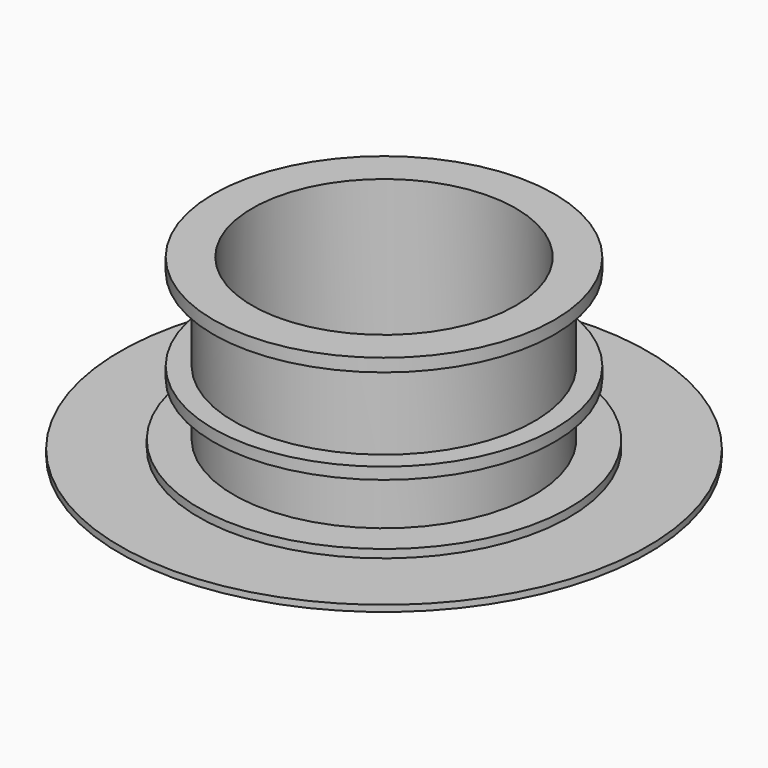
from build123d import *

# Parameters (mm, degrees)
F2_R     = 14.405
F3_DEPTH = 19.151


with BuildPart() as f1:
    # F0 (on Right) → F1 (revolve)
    with BuildSketch(Plane.YZ):
        Polygon((0, 0), (0, -19.15), (28.84, -19.15), (28.84, -18.46), (20.25, -18.46), (20.25, -17.56), (16.42, -17.56), (16.42, -11.75), (18.635, -11.75), (18.635, -10.48), (16.42, -10.48), (16.42, -1.41), (18.635, -1.41), (18.635, 0), align=None)
    revolve(axis=Axis((0, 0, -9.575), (0, 0, -1)))

    # F2 (on face) → F3 (cut, through all)
    with BuildSketch(Plane.XY):
        Circle(F2_R)
    extrude(amount=-F3_DEPTH, mode=Mode.SUBTRACT)


solid = f1.part
